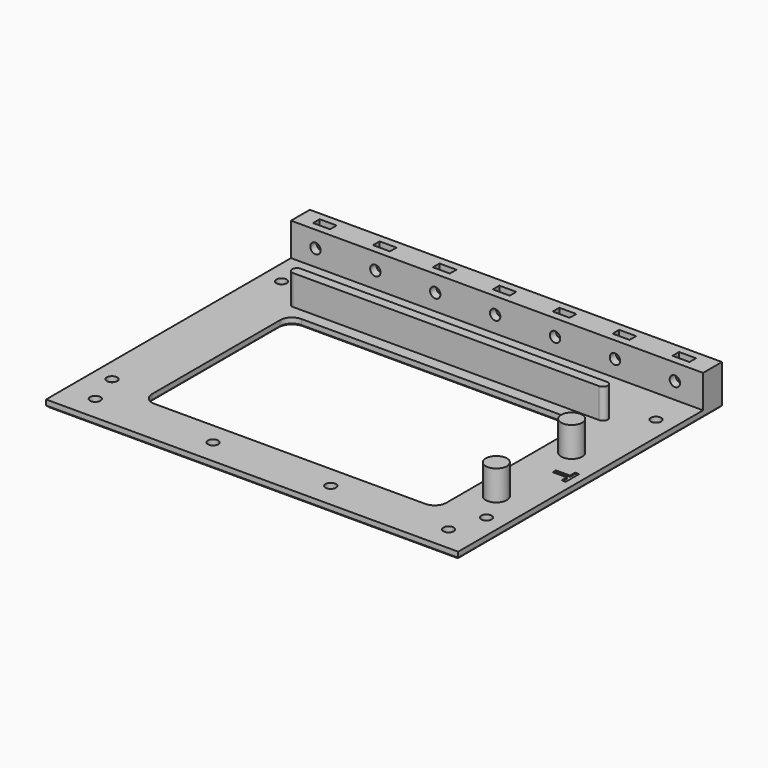
from build123d import *

# Parameters (mm, degrees)
SKETCH_W            = 175
SKETCH_H            = 140
SKETCH_R            = 2.2
PAD_DEPTH           = 3
SKETCH001_W         = 175
SKETCH001_H         = 10
PAD001_DEPTH        = 14
SKETCH002_R         = 2.2
POCKET_DEPTH        = 140.001
SKETCH003_W         = 7.2
SKETCH003_H         = 3.5
POCKET001_DEPTH     = 11.2
LINEARPATTERN_COUNT = 7
LINEARPATTERN_PITCH = 25.436
POCKET002_DEPTH     = 0.5
PAD002_DEPTH        = 12.7
POCKET003_DEPTH     = 3.001
SKETCH007_R         = 4.5
PAD003_DEPTH        = 12.7
SKETCH008_R         = 1.5
POCKET004_DEPTH     = 14
CHAMFER_SIZE        = 0.75


with BuildPart() as part:
    # Sketch → Pad (new body)
    with BuildSketch(Plane.XY):
        with Locations((0, 70)):
            Rectangle(SKETCH_W, SKETCH_H)
        with Locations((-79.5, 115)):
            Circle(SKETCH_R, mode=Mode.SUBTRACT)
        with Locations((79.5, 115)):
            Circle(SKETCH_R, mode=Mode.SUBTRACT)
        with Locations((79.5, 25)):
            Circle(SKETCH_R, mode=Mode.SUBTRACT)
        with Locations((-79.5, 25)):
            Circle(SKETCH_R, mode=Mode.SUBTRACT)
        with Locations((-75, 10.5)):
            Circle(SKETCH_R, mode=Mode.SUBTRACT)
        with Locations((-25, 10.5)):
            Circle(SKETCH_R, mode=Mode.SUBTRACT)
        with Locations((25, 10.5)):
            Circle(SKETCH_R, mode=Mode.SUBTRACT)
        with Locations((75, 10.5)):
            Circle(SKETCH_R, mode=Mode.SUBTRACT)
    extrude(amount=PAD_DEPTH)

    # Sketch001 (on Face14 of Pad) → Pad001 (join)
    with BuildSketch(Plane.XY.offset(3)):
        with Locations((0, 135)):
            Rectangle(SKETCH001_W, SKETCH001_H)
    extrude(amount=PAD001_DEPTH)

    # Sketch002 (on Face5 of Pad001) → Pocket (cut, through all)
    with BuildSketch(Plane(origin=(0, 140, 0), x_dir=(-1, 0, 0), z_dir=(0, 1, 0))):
        with Locations((-75.508, 10)):
            Circle(SKETCH002_R)
        with Locations((-50.072, 10)):
            Circle(SKETCH002_R)
        with Locations((-24.636, 10)):
            Circle(SKETCH002_R)
        with Locations((0.8, 10)):
            Circle(SKETCH002_R)
        with Locations((26.236, 10)):
            Circle(SKETCH002_R)
        with Locations((51.672, 10)):
            Circle(SKETCH002_R)
        with Locations((77.108, 10)):
            Circle(SKETCH002_R)
    extrude(amount=-POCKET_DEPTH, mode=Mode.SUBTRACT)

    # Sketch003 (on Face18 of Pocket) → Pocket001 (cut)
    with BuildSketch(Plane.XY.offset(17)):
        with Locations((75.508, 135)):
            Rectangle(SKETCH003_W, SKETCH003_H)
    pocket001 = extrude(amount=-POCKET001_DEPTH, mode=Mode.SUBTRACT)

    # LinearPattern: Pocket001 ×7
    with Locations(*[(-i * LINEARPATTERN_PITCH, 0, 0) for i in range(1, LINEARPATTERN_COUNT)]):
        add(pocket001, mode=Mode.SUBTRACT)

    # Sketch004 (on Face7 of LinearPattern) → Pocket002 (cut)
    with BuildSketch(Plane.XY.offset(3)):
        Polygon((84, 68.55), (84, 61.45), (82.3, 61.45), (82.3, 64.15), (76.3, 64.15), (76.3, 65.85), (82.3, 65.85), (82.3, 68.55), align=None)
    extrude(amount=-POCKET002_DEPTH, mode=Mode.SUBTRACT)

    # Sketch005 (on Face7 of Pocket002) → Pad002 (join)
    with BuildSketch(Plane.XY.offset(3)):
        with BuildLine():
            ThreePointArc((65, 103), (67, 105), (65, 107))
            Line((65, 107), (-65, 107))
            ThreePointArc((-65, 107), (-67, 105), (-65, 103))
            Line((65, 103), (-65, 103))
        make_face()
    extrude(amount=PAD002_DEPTH)

    # Sketch006 (on Face7 of Pad002) → Pocket003 (cut, through all)
    with BuildSketch(Plane.XY.offset(3)):
        with BuildLine():
            Line((-57.5, 98), (57.5, 98))
            ThreePointArc((62.5, 93), (61.0355339059, 96.5355339059), (57.5, 98))
            Line((62.5, 93), (62.5, 25))
            ThreePointArc((57.5, 20), (61.0355339059, 21.4644660941), (62.5, 25))
            Line((57.5, 20), (-57.5, 20))
            ThreePointArc((-62.5, 25), (-61.0355339059, 21.4644660941), (-57.5, 20))
            Line((-62.5, 25), (-62.5, 93))
            ThreePointArc((-57.5, 98), (-61.0355339059, 96.5355339059), (-62.5, 93))
        make_face()
    extrude(amount=-POCKET003_DEPTH, mode=Mode.SUBTRACT)

    # Sketch007 (on Face7 of Pocket003) → Pad003 (join)
    with BuildSketch(Plane.XY.offset(3)):
        with Locations((72.5, 79)):
            Circle(SKETCH007_R)
        with Locations((72.5, 39)):
            Circle(SKETCH007_R)
    extrude(amount=PAD003_DEPTH)

    # Sketch008 (on Face4 of Pad003) → Pocket004 (cut)
    with BuildSketch(Plane(origin=(0, 0, 0), x_dir=(1, 0, 0), z_dir=(0, 0, -1))):
        with Locations((72.5, -79)):
            Circle(SKETCH008_R)
        with Locations((72.5, -39)):
            Circle(SKETCH008_R)
    extrude(amount=-POCKET004_DEPTH, mode=Mode.SUBTRACT)

    # Chamfer
    chamfer_edges = [part.edges().sort_by_distance(p)[0] for p in [
        (0, 140, 0),
        (-87.5, 70, 0),
        (87.5, 70, 0),
        (0, 0, 0),
        (-77.2, 10.5, 0),
        (-27.2, 10.5, 0),
        (71, 39, 0),
        (72.8, 10.5, 0),
        (71, 79, 0),
        (22.8, 10.5, 0),
        (61.035534, 96.535534, 0),
        (62.5, 59, 0),
        (0, 98, 0),
        (61.035534, 21.464466, 0),
        (-61.035534, 96.535534, 0),
        (0, 20, 0),
        (-62.5, 59, 0),
        (-61.035534, 21.464466, 0),
        (77.3, 115, 0),
        (77.3, 25, 0),
        (-81.7, 115, 0),
        (-81.7, 25, 0),
    ]]
    chamfer(chamfer_edges, length=CHAMFER_SIZE)


solid = part.part
